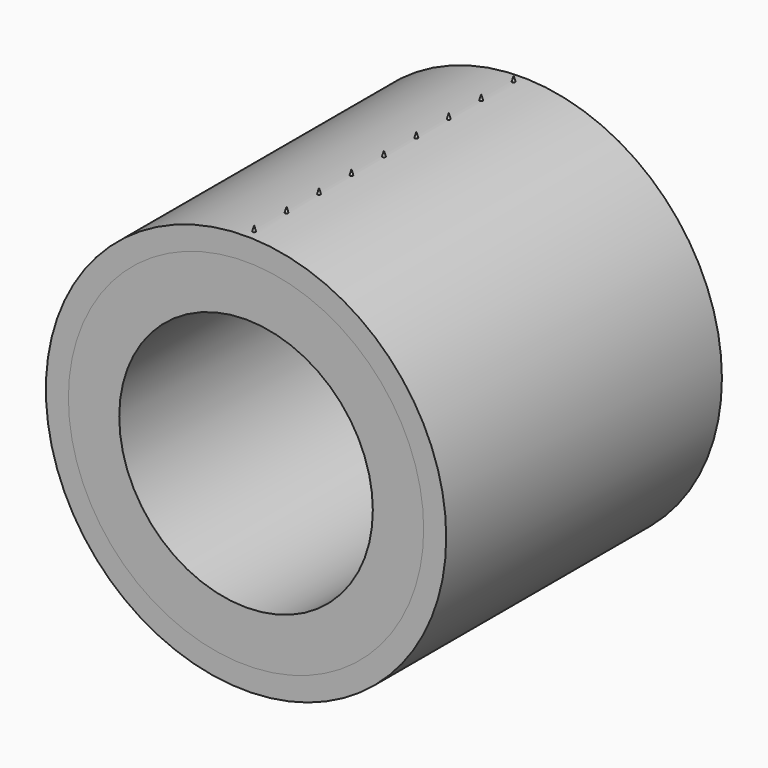
from build123d import *

# Parameters (mm, degrees)
F0_R        = 35.052
F0_R_2      = 25.019
F1_DEPTH    = 34
F2_R        = 39.5
F2_R_2      = 35.052
F3_DEPTH    = 34
F5_R        = 0.31
F6_DEPTH    = 25.4
F7_DEPTH    = 5.5
F8_SIZE2    = 1.1
F8_SIZE     = 0.31
F8_2_SIZE2  = 1.1
F8_2_SIZE   = 0.31
F8_3_SIZE2  = 1.1
F8_3_SIZE   = 0.31
F8_4_SIZE2  = 1.1
F8_4_SIZE   = 0.31
F8_5_SIZE2  = 1.1
F8_5_SIZE   = 0.31
F8_6_SIZE2  = 1.1
F8_6_SIZE   = 0.31
F8_7_SIZE2  = 1.1
F8_7_SIZE   = 0.31
F8_8_SIZE2  = 1.1
F8_8_SIZE   = 0.31
F8_9_SIZE2  = 1.1
F8_9_SIZE   = 0.31
F10_R       = 0.31
F11_DEPTH   = 25.4
F12_DEPTH   = 5.5
F13_SIZE2   = 0.31
F13_SIZE    = 1.1
F13_2_SIZE2 = 0.31
F13_2_SIZE  = 1.1
F13_3_SIZE2 = 0.31
F13_3_SIZE  = 1.1
F13_4_SIZE2 = 0.31
F13_4_SIZE  = 1.1
F13_5_SIZE2 = 0.31
F13_5_SIZE  = 1.1
F13_6_SIZE2 = 0.31
F13_6_SIZE  = 1.1
F13_7_SIZE2 = 0.31
F13_7_SIZE  = 1.1
F13_8_SIZE2 = 0.31
F13_8_SIZE  = 1.1


with BuildPart() as f1:
    # F0 (on Front) → F1 (new body, symmetric)
    with BuildSketch(Plane.XZ):
        Circle(F0_R)
        Circle(F0_R_2, mode=Mode.SUBTRACT)
    extrude(amount=F1_DEPTH, both=True)


with BuildPart() as f3:
    # F2 (on Front) → F3 (new body, symmetric)
    with BuildSketch(Plane.XZ):
        Circle(F2_R)
        Circle(F2_R_2, mode=Mode.SUBTRACT)
    extrude(amount=F3_DEPTH, both=True)

    # F5 (on offset) → F6 (cut)
    with BuildSketch(Plane.XY.offset(35.052)):
        Circle(F5_R)
        with Locations((0, 8)):
            Circle(F5_R)
        with Locations((0, 16)):
            Circle(F5_R)
        with Locations((0, 24)):
            Circle(F5_R)
        with Locations((0, 32)):
            Circle(F5_R)
        with Locations((0, -8)):
            Circle(F5_R)
        with Locations((0, -16)):
            Circle(F5_R)
        with Locations((0, -24)):
            Circle(F5_R)
        with Locations((0, -32)):
            Circle(F5_R)
    extrude(amount=F6_DEPTH, mode=Mode.SUBTRACT)

    # F10 (on offset) → F11 (cut)
    with BuildSketch(Plane.XY.offset(-35.052)):
        with Locations((0, -4)):
            Circle(F10_R)
        with Locations((0, 4)):
            Circle(F10_R)
        with Locations((0, -12)):
            Circle(F10_R)
        with Locations((0, -20)):
            Circle(F10_R)
        with Locations((0, -28)):
            Circle(F10_R)
        with Locations((0, 12)):
            Circle(F10_R)
        with Locations((0, 20)):
            Circle(F10_R)
        with Locations((0, 28)):
            Circle(F10_R)
    extrude(amount=-F11_DEPTH, mode=Mode.SUBTRACT)


with BuildPart() as f7:
    # F5 (on offset) → F7 (new body)
    with BuildSketch(Plane.XY.offset(35.052)):
        Circle(F5_R)
    extrude(amount=F7_DEPTH)

    # F8#5
    f8_5_edges = [f7.edges().sort_by_distance(p)[0] for p in [
        (-0.31, 0, 40.552),
    ]]
    f8_5_side = f7.faces().sort_by_distance((0, 0, 40.552))[0]
    chamfer(f8_5_edges, length=F8_5_SIZE, length2=F8_5_SIZE2, reference=f8_5_side)


with BuildPart() as f7b:
    # F5 (on offset) → F7, piece 2 (new body)
    with BuildSketch(Plane.XY.offset(35.052)):
        with Locations((0, 8)):
            Circle(F5_R)
    extrude(amount=F7_DEPTH)

    # F8#6
    f8_6_edges = [f7b.edges().sort_by_distance(p)[0] for p in [
        (-0.31, 8, 40.552),
    ]]
    f8_6_side = f7b.faces().sort_by_distance((0, 8, 40.552))[0]
    chamfer(f8_6_edges, length=F8_6_SIZE, length2=F8_6_SIZE2, reference=f8_6_side)


with BuildPart() as f7c:
    # F5 (on offset) → F7, piece 3 (new body)
    with BuildSketch(Plane.XY.offset(35.052)):
        with Locations((0, 16)):
            Circle(F5_R)
    extrude(amount=F7_DEPTH)

    # F8#7
    f8_7_edges = [f7c.edges().sort_by_distance(p)[0] for p in [
        (-0.31, 16, 40.552),
    ]]
    f8_7_side = f7c.faces().sort_by_distance((0, 16, 40.552))[0]
    chamfer(f8_7_edges, length=F8_7_SIZE, length2=F8_7_SIZE2, reference=f8_7_side)


with BuildPart() as f7d:
    # F5 (on offset) → F7, piece 4 (new body)
    with BuildSketch(Plane.XY.offset(35.052)):
        with Locations((0, 24)):
            Circle(F5_R)
    extrude(amount=F7_DEPTH)

    # F8#8
    f8_8_edges = [f7d.edges().sort_by_distance(p)[0] for p in [
        (-0.31, 24, 40.552),
    ]]
    f8_8_side = f7d.faces().sort_by_distance((0, 24, 40.552))[0]
    chamfer(f8_8_edges, length=F8_8_SIZE, length2=F8_8_SIZE2, reference=f8_8_side)


with BuildPart() as f7e:
    # F5 (on offset) → F7, piece 5 (new body)
    with BuildSketch(Plane.XY.offset(35.052)):
        with Locations((0, 32)):
            Circle(F5_R)
    extrude(amount=F7_DEPTH)

    # F8#9
    f8_9_edges = [f7e.edges().sort_by_distance(p)[0] for p in [
        (-0.31, 32, 40.552),
    ]]
    f8_9_side = f7e.faces().sort_by_distance((0, 32, 40.552))[0]
    chamfer(f8_9_edges, length=F8_9_SIZE, length2=F8_9_SIZE2, reference=f8_9_side)


with BuildPart() as f7f:
    # F5 (on offset) → F7, piece 6 (new body)
    with BuildSketch(Plane.XY.offset(35.052)):
        with Locations((0, -8)):
            Circle(F5_R)
    extrude(amount=F7_DEPTH)

    # F8#4
    f8_4_edges = [f7f.edges().sort_by_distance(p)[0] for p in [
        (-0.31, -8, 40.552),
    ]]
    f8_4_side = f7f.faces().sort_by_distance((0, -8, 40.552))[0]
    chamfer(f8_4_edges, length=F8_4_SIZE, length2=F8_4_SIZE2, reference=f8_4_side)


with BuildPart() as f7g:
    # F5 (on offset) → F7, piece 7 (new body)
    with BuildSketch(Plane.XY.offset(35.052)):
        with Locations((0, -16)):
            Circle(F5_R)
    extrude(amount=F7_DEPTH)

    # F8#3
    f8_3_edges = [f7g.edges().sort_by_distance(p)[0] for p in [
        (-0.31, -16, 40.552),
    ]]
    f8_3_side = f7g.faces().sort_by_distance((0, -16, 40.552))[0]
    chamfer(f8_3_edges, length=F8_3_SIZE, length2=F8_3_SIZE2, reference=f8_3_side)


with BuildPart() as f7h:
    # F5 (on offset) → F7, piece 8 (new body)
    with BuildSketch(Plane.XY.offset(35.052)):
        with Locations((0, -24)):
            Circle(F5_R)
    extrude(amount=F7_DEPTH)

    # F8#2
    f8_2_edges = [f7h.edges().sort_by_distance(p)[0] for p in [
        (-0.31, -24, 40.552),
    ]]
    f8_2_side = f7h.faces().sort_by_distance((0, -24, 40.552))[0]
    chamfer(f8_2_edges, length=F8_2_SIZE, length2=F8_2_SIZE2, reference=f8_2_side)


with BuildPart() as f7i:
    # F5 (on offset) → F7, piece 9 (new body)
    with BuildSketch(Plane.XY.offset(35.052)):
        with Locations((0, -32)):
            Circle(F5_R)
    extrude(amount=F7_DEPTH)

    # F8
    f8_edges = [f7i.edges().sort_by_distance(p)[0] for p in [
        (-0.31, -32, 40.552),
    ]]
    f8_side = f7i.faces().sort_by_distance((0, -32, 40.552))[0]
    chamfer(f8_edges, length=F8_SIZE, length2=F8_SIZE2, reference=f8_side)


with BuildPart() as f12:
    # F10 (on offset) → F12 (new body)
    with BuildSketch(Plane.XY.offset(-35.052)):
        with Locations((0, -4)):
            Circle(F10_R)
    extrude(amount=-F12_DEPTH)

    # F13#4
    f13_4_edges = [f12.edges().sort_by_distance(p)[0] for p in [
        (-0.31, -4, -40.552),
    ]]
    f13_4_side = f12.faces().sort_by_distance((-0.31, -4, -37.802))[0]
    chamfer(f13_4_edges, length=F13_4_SIZE, length2=F13_4_SIZE2, reference=f13_4_side)


with BuildPart() as f12b:
    # F10 (on offset) → F12, piece 2 (new body)
    with BuildSketch(Plane.XY.offset(-35.052)):
        with Locations((0, 4)):
            Circle(F10_R)
    extrude(amount=-F12_DEPTH)

    # F13#5
    f13_5_edges = [f12b.edges().sort_by_distance(p)[0] for p in [
        (-0.31, 4, -40.552),
    ]]
    f13_5_side = f12b.faces().sort_by_distance((-0.31, 4, -37.802))[0]
    chamfer(f13_5_edges, length=F13_5_SIZE, length2=F13_5_SIZE2, reference=f13_5_side)


with BuildPart() as f12c:
    # F10 (on offset) → F12, piece 3 (new body)
    with BuildSketch(Plane.XY.offset(-35.052)):
        with Locations((0, -12)):
            Circle(F10_R)
    extrude(amount=-F12_DEPTH)

    # F13#3
    f13_3_edges = [f12c.edges().sort_by_distance(p)[0] for p in [
        (-0.31, -12, -40.552),
    ]]
    f13_3_side = f12c.faces().sort_by_distance((-0.31, -12, -37.802))[0]
    chamfer(f13_3_edges, length=F13_3_SIZE, length2=F13_3_SIZE2, reference=f13_3_side)


with BuildPart() as f12d:
    # F10 (on offset) → F12, piece 4 (new body)
    with BuildSketch(Plane.XY.offset(-35.052)):
        with Locations((0, -20)):
            Circle(F10_R)
    extrude(amount=-F12_DEPTH)

    # F13#2
    f13_2_edges = [f12d.edges().sort_by_distance(p)[0] for p in [
        (-0.31, -20, -40.552),
    ]]
    f13_2_side = f12d.faces().sort_by_distance((-0.31, -20, -37.802))[0]
    chamfer(f13_2_edges, length=F13_2_SIZE, length2=F13_2_SIZE2, reference=f13_2_side)


with BuildPart() as f12e:
    # F10 (on offset) → F12, piece 5 (new body)
    with BuildSketch(Plane.XY.offset(-35.052)):
        with Locations((0, -28)):
            Circle(F10_R)
    extrude(amount=-F12_DEPTH)

    # F13
    f13_edges = [f12e.edges().sort_by_distance(p)[0] for p in [
        (-0.31, -28, -40.552),
    ]]
    f13_side = f12e.faces().sort_by_distance((-0.31, -28, -37.802))[0]
    chamfer(f13_edges, length=F13_SIZE, length2=F13_SIZE2, reference=f13_side)


with BuildPart() as f12f:
    # F10 (on offset) → F12, piece 6 (new body)
    with BuildSketch(Plane.XY.offset(-35.052)):
        with Locations((0, 12)):
            Circle(F10_R)
    extrude(amount=-F12_DEPTH)

    # F13#6
    f13_6_edges = [f12f.edges().sort_by_distance(p)[0] for p in [
        (-0.31, 12, -40.552),
    ]]
    f13_6_side = f12f.faces().sort_by_distance((-0.31, 12, -37.802))[0]
    chamfer(f13_6_edges, length=F13_6_SIZE, length2=F13_6_SIZE2, reference=f13_6_side)


with BuildPart() as f12g:
    # F10 (on offset) → F12, piece 7 (new body)
    with BuildSketch(Plane.XY.offset(-35.052)):
        with Locations((0, 20)):
            Circle(F10_R)
    extrude(amount=-F12_DEPTH)

    # F13#7
    f13_7_edges = [f12g.edges().sort_by_distance(p)[0] for p in [
        (-0.31, 20, -40.552),
    ]]
    f13_7_side = f12g.faces().sort_by_distance((-0.31, 20, -37.802))[0]
    chamfer(f13_7_edges, length=F13_7_SIZE, length2=F13_7_SIZE2, reference=f13_7_side)


with BuildPart() as f12h:
    # F10 (on offset) → F12, piece 8 (new body)
    with BuildSketch(Plane.XY.offset(-35.052)):
        with Locations((0, 28)):
            Circle(F10_R)
    extrude(amount=-F12_DEPTH)

    # F13#8
    f13_8_edges = [f12h.edges().sort_by_distance(p)[0] for p in [
        (-0.31, 28, -40.552),
    ]]
    f13_8_side = f12h.faces().sort_by_distance((-0.31, 28, -37.802))[0]
    chamfer(f13_8_edges, length=F13_8_SIZE, length2=F13_8_SIZE2, reference=f13_8_side)


solid = Compound([f1.part, f3.part, f7.part, f7b.part, f7c.part, f7d.part, f7e.part, f7f.part, f7g.part, f7h.part, f7i.part, f12.part, f12b.part, f12c.part, f12d.part, f12e.part, f12f.part, f12g.part, f12h.part])
